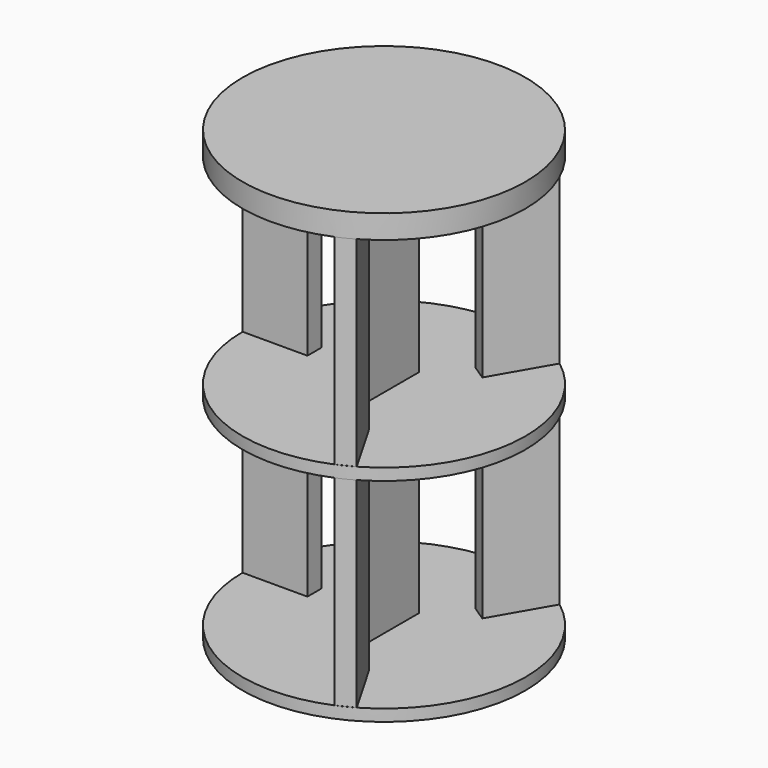
from build123d import *

# Parameters (mm, degrees)
F0_R      = 304.8
F1_DEPTH  = 25.4
F3_R      = 304.8
F4_DEPTH  = 25.4
F7_W      = 139.7
F7_H      = 38.1
F7_W_2    = 38.1
F7_H_2    = 139.7
F8_DEPTH  = 431.8
F9_W      = 139.7
F9_H      = 38.1
F9_W_2    = 38.1
F9_H_2    = 139.7
F10_DEPTH = 457.2
F6_R      = 304.8
F11_DEPTH = 50.8


with BuildPart() as f1:
    # F0 (on Top) → F1 (new body)
    with BuildSketch(Plane.XY):
        Circle(F0_R)
    extrude(amount=F1_DEPTH)



with BuildPart() as f4:
    # F3 (on offset) → F4 (new body)
    with BuildSketch(Plane.XY.offset(457.2)):
        Circle(F3_R)
    extrude(amount=F4_DEPTH)


with BuildPart() as f1_1:
    add(f1.part)

    add(f4.part)  # F8 merges F4
    # F7 (on face) → F8 (join, through all)
    with BuildSketch(Plane.XY.offset(25.4)):
        with Locations((-234.95, 19.05)):
            Rectangle(F7_W, F7_H)
        Polygon((152.4, 263.9645430735), (82.55, 142.9807941648), (114.2904353584, 121.9058146094), (184.1404353584, 242.8895635181), align=None)
        Polygon((152.4, -263.9645430735), (82.55, -142.9807941648), (49.5544321158, -162.0307941648), (118.2091195432, -280.9442009667), align=None)
        Rectangle(F7_W_2, F7_H_2)
    extrude(amount=F8_DEPTH)

    # F9 (on face) → F10 (join, through all)
    with BuildSketch(Plane.XY.offset(914.4)):
        with Locations((-234.95, 19.05)):
            Rectangle(F9_W, F9_H)
        Polygon((152.4, 263.9645430735), (82.55, 142.9807941648), (114.2904353584, 121.9058146094), (184.1404353584, 242.8895635181), align=None)
        Polygon((152.4, -263.9645430735), (82.55, -142.9807941648), (49.5544321158, -162.0307941648), (118.2091195432, -280.9442009667), align=None)
        Rectangle(F9_W_2, F9_H_2)
    extrude(amount=-F10_DEPTH)

    # F6 (on offset) → F11 (join)
    with BuildSketch(Plane.XY.offset(914.4)):
        Circle(F6_R)
    extrude(amount=F11_DEPTH)


solid = f1_1.part
